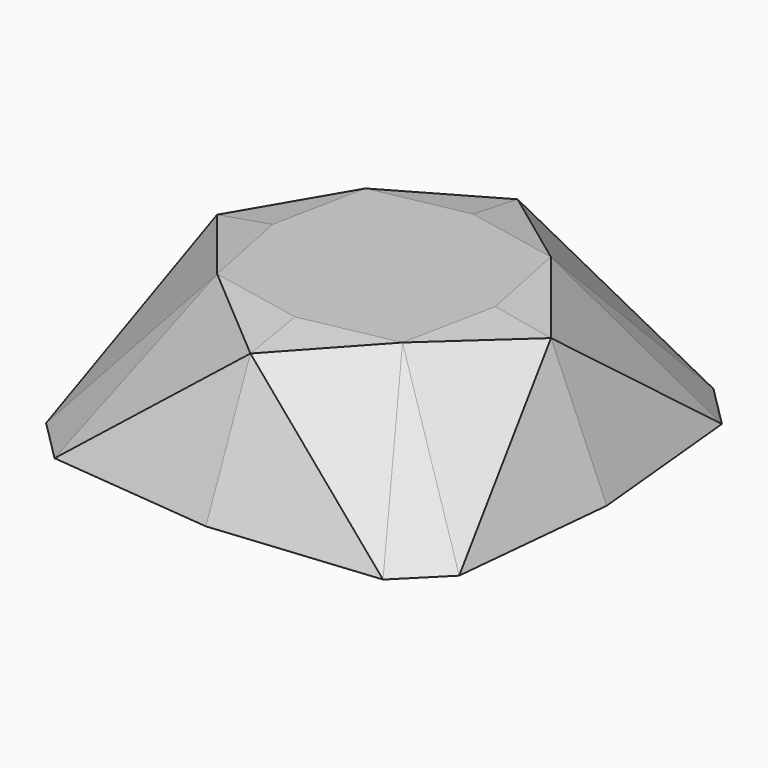
from build123d import *

# Parameters (mm, degrees)
F1_DEPTH  = 8.5
F3_DEPTH  = 1
F5_W      = 21.3351653656
F5_H      = 16.6395662818
F6_DEPTH  = 25.4
F8_W      = 32.5405728072
F8_H      = 36.5617219359
F9_DEPTH  = 25.4
F12_W     = 39.0807809308
F12_H     = 30.5973365903
F13_DEPTH = 25.4
F15_W     = 34.2101305723
F15_H     = 32.0557234809
F16_DEPTH = 25.4
F18_W     = 10.4850952048
F18_H     = 24.5708920993
F19_DEPTH = 25.4
F23_T     = -1


with BuildPart() as f1:
    # F0 (on Top) → F1 (new body)
    with BuildSketch(Plane.XY):
        Polygon((12, -12), (12, 0), (2.0081724885, -9.9918275115), (3.148298335, -11.131953358), align=None)
    extrude(amount=F1_DEPTH)

    # F2 (on face) → F3 (cut)
    with BuildSketch(Plane.XY.offset(8.5)):
        Polygon((12, -6), (12, 0), (7.0040862443, -4.9959137557), align=None)
    extrude(amount=-F3_DEPTH, mode=Mode.SUBTRACT)

    # F5 (on face) → F6 (cut)
    with BuildSketch(Plane(origin=(-0.2736218822, -1.3614281972, 7.8754394827), x_dir=(0.999414466, -0.0058284524, 0.033715788), z_dir=(-0.0342158621, -0.170243838, 0.984807753))):
        with Locations((9.1339054634, -6.3430479495)):
            Rectangle(F5_W, F5_H)
    extrude(amount=F6_DEPTH, mode=Mode.SUBTRACT)

    # F8 (on 3pt) → F9 (cut)
    with BuildSketch(Plane(origin=(-2.047796356, -1.8446305737, 2.5928305655), x_dir=(0.8409146633, -0.3137144476, 0.44096006), z_dir=(-0.5411677458, -0.4874774616, 0.6852030322))):
        with Locations((12.2363092378, -5.4249586537)):
            Rectangle(F8_W, F8_H)
    extrude(amount=F9_DEPTH, mode=Mode.SUBTRACT)

    # F12 (on 3pt) → F13 (cut)
    with BuildSketch(Plane(origin=(-2.1635826482, -3.1806122044, 3.7144904348), x_dir=(0.9144921522, -0.2631581438, 0.3073302701), z_dir=(-0.4046036376, -0.5947945963, 0.6946332016))):
        with Locations((12.1668963693, -3.5860668868)):
            Rectangle(F12_W, F12_H)
    extrude(amount=F13_DEPTH, mode=Mode.SUBTRACT)

    # F15 (on 3pt) → F16 (cut)
    with BuildSketch(Plane(origin=(-0.8887297085, -9.0626123757, 3.8943302941), x_dir=(0.995965621, -0.0824459089, 0.0354281511), z_dir=(-0.0897356216, -0.9150579155, 0.393213084))):
        with Locations((12.4972742051, -3.3018724062)):
            Rectangle(F15_W, F15_H)
    extrude(amount=F16_DEPTH, mode=Mode.SUBTRACT)

    # F18 (on 3pt) → F19 (cut)
    with BuildSketch(Plane(origin=(-2.1149465474, -2.1149465474, 2.8176241463), x_dir=(0.8573741534, -0.3089777782, 0.4116336886), z_dir=(0.5146936574, 0.5146936574, -0.6856973662))):
        with Locations((7.849192596, 5.699301837)):
            Rectangle(F18_W, F18_H)
    extrude(amount=-F19_DEPTH, mode=Mode.SUBTRACT)

    # F20: F1 across face


with BuildPart() as f1_1:
    add(f1.part)
    add(f1.part.mirror(Plane(origin=(8.1142893011, -3.8857106989, 3.3333333333), x_dir=(-0.7071067812, -0.7071067812, 0), z_dir=(-0.7071067812, 0.7071067812, 0))))

    # F21: F1 across face


with BuildPart() as f1_2:
    add(f1_1.part)
    add(f1_1.part.mirror(Plane(origin=(12, -5.2108536925, 3.5209267252), x_dir=(0, 1, 0), z_dir=(1, 0, 0))))

    # F22: F1 across face


with BuildPart() as f1_3:
    add(f1_2.part)
    add(f1_2.part.mirror(Plane(origin=(12, 0, 3.5209267252), x_dir=(-1, 0, 0), z_dir=(0, 1, 0))))

    # F23
    f23_openings = [f1_3.faces().sort_by_distance(p)[0] for p in [
        (12, 0, 0),
    ]]
    offset(amount=F23_T, openings=f23_openings)


solid = f1_3.part
